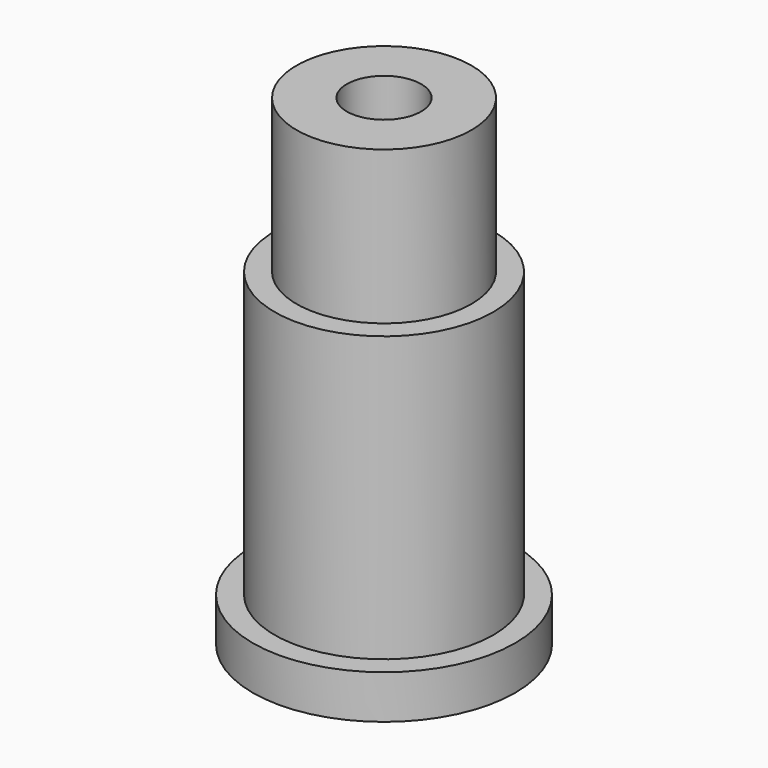
from build123d import *

# Parameters (mm, degrees)
F0_R     = 4
F1_DEPTH = 22
F0_R_2   = 5
F2_DEPTH = 15
F0_R_3   = 6
F3_DEPTH = 2
F4_D     = 3.4


with BuildPart() as f1:
    # F0 (on Top) → F1 (new body)
    with BuildSketch(Plane.XY):
        Circle(F0_R)
    extrude(amount=F1_DEPTH)

    # F0 (on Top) → F2 (join)
    with BuildSketch(Plane.XY):
        Circle(F0_R_2)
        Circle(F0_R, mode=Mode.SUBTRACT)
    extrude(amount=F2_DEPTH)

    # F0 (on Top) → F3 (join)
    with BuildSketch(Plane.XY):
        Circle(F0_R_3)
        Circle(F0_R_2, mode=Mode.SUBTRACT)
    extrude(amount=F3_DEPTH)

    # F4 (through all)
    with Locations(Plane(origin=(0, 0, 0), x_dir=(1, 0, 0), z_dir=(0, 0, -1))):
        with Locations((0, 0)):
            Hole(F4_D / 2)


solid = f1.part
